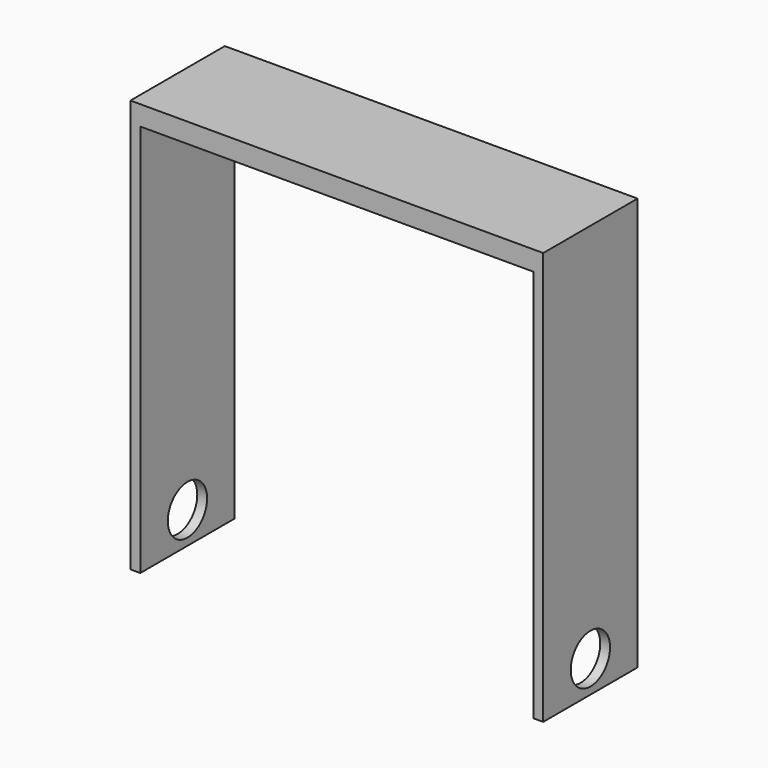
from build123d import *

# Parameters (mm, degrees)
F0_W     = 106.68
F0_H     = 106.68
F1_DEPTH = 30.48
F2_W     = 101.6
F2_H     = 101.6
F3_DEPTH = 30.48
F4_R     = 6.35
F5_DEPTH = 106.68


with BuildPart() as f1:
    # F0 (on Front) → F1 (new body)
    with BuildSketch(Plane.XZ):
        with Locations((53.34, 53.34)):
            Rectangle(F0_W, F0_H)
    extrude(amount=F1_DEPTH)

    # F2 (on face) → F3 (cut)
    with BuildSketch(Plane.XZ.offset(30.48)):
        with Locations((53.34, 50.8)):
            Rectangle(F2_W, F2_H)
    extrude(amount=-F3_DEPTH, mode=Mode.SUBTRACT)

    # F4 (on face) → F5 (cut)
    with BuildSketch(Plane.YZ.offset(106.68)):
        with Locations((-15.24, 8.207626)):
            Circle(F4_R)
    extrude(amount=-F5_DEPTH, mode=Mode.SUBTRACT)


solid = f1.part
